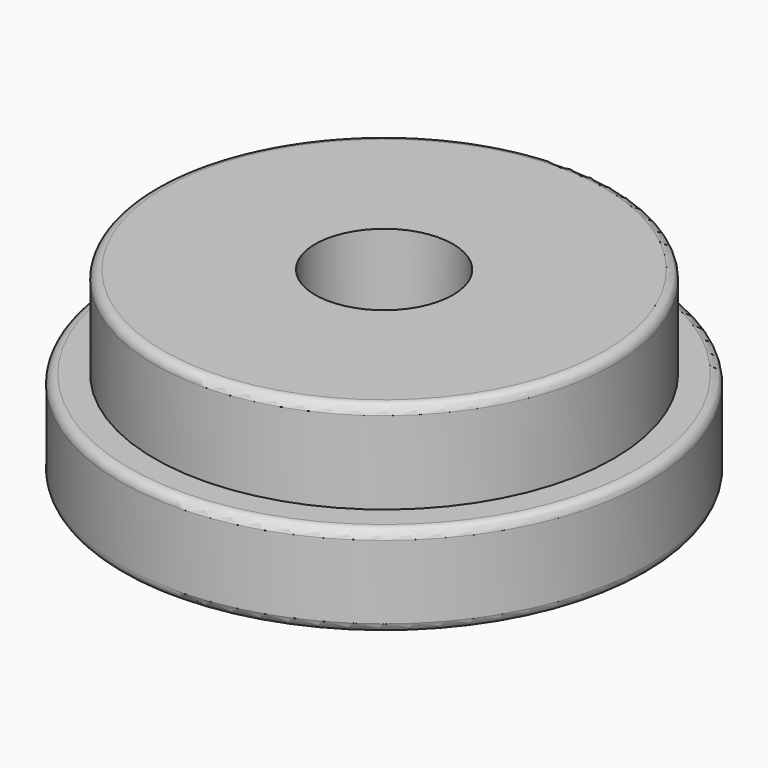
from build123d import *

# Parameters (mm, degrees)
F0_R     = 5
F0_R_2   = 1.5
F1_DEPTH = 4
F0_R_3   = 5.75
F2_DEPTH = 2
F3_R     = 0.2


with BuildPart() as f1:
    # F0 (on Top) → F1 (new body)
    with BuildSketch(Plane.XY):
        Circle(F0_R)
        Circle(F0_R_2, mode=Mode.SUBTRACT)
    extrude(amount=F1_DEPTH)

    # F0 (on Top) → F2 (join)
    with BuildSketch(Plane.XY):
        Circle(F0_R_3)
        Circle(F0_R, mode=Mode.SUBTRACT)
    extrude(amount=F2_DEPTH)

    # F3
    f3_edges = [f1.edges().sort_by_distance(p)[0] for p in [
        (-5, 0, 4),
        (-5.75, 0, 2),
        (-5.75, 0, 0),
    ]]
    fillet(f3_edges, radius=F3_R)


solid = f1.part
